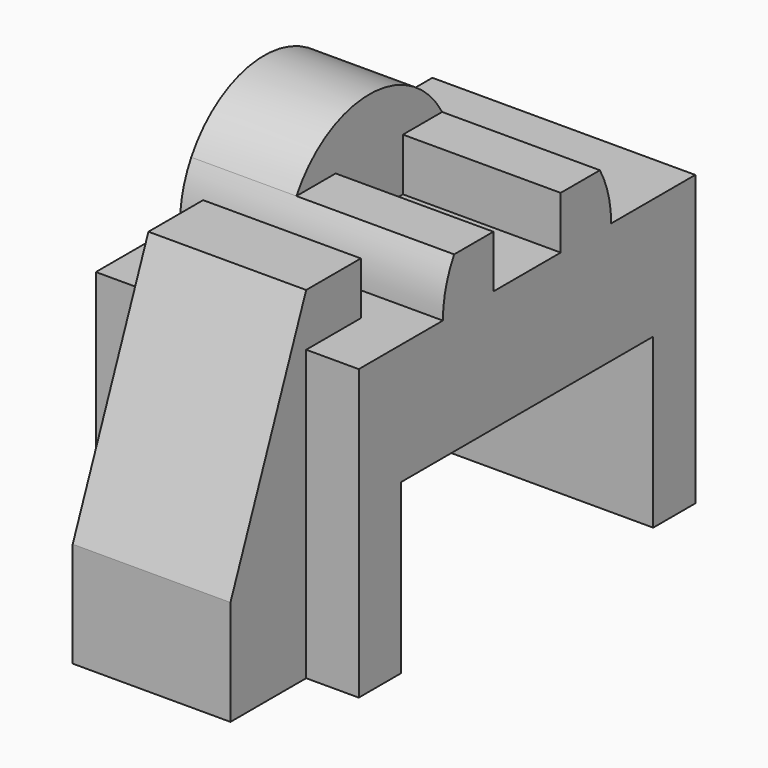
from build123d import *

# Parameters (mm, degrees)
F1_DEPTH      = 25
F2_W          = 30
F2_H          = 65
F3_DEPTH      = 18
F3_DEPTH_BACK = 13
F4_SIZE2      = 18
F4_SIZE       = 45
F6_DEPTH      = 20


with BuildPart() as f1:
    # F0 (on Right) → F1 (new body, symmetric)
    with BuildSketch(Plane.YZ):
        with BuildLine():
            Line((8, 0), (0, 0))
            Line((0, 0), (-8, 0))
            Line((-8, 0), (-8, 10))
            Line((-8, 10), (-17.3205080757, 10))
            ThreePointArc((-17.3205080757, 10), (-19.3185165258, 5.1763809021), (-20, 0))
            Line((-20, 0), (-40, 0))
            Line((-40, 0), (-40, -55))
            Line((-40, -55), (-30, -55))
            Line((-30, -55), (-30, -23))
            Line((-30, -23), (0, -23))
            Line((0, -23), (30, -23))
            Line((30, -23), (30, -55))
            Line((30, -55), (40, -55))
            Line((40, -55), (40, 0))
            Line((40, 0), (20, 0))
            ThreePointArc((20, 0), (19.3185165258, 5.1763809021), (17.3205080757, 10))
            Line((17.3205080757, 10), (8, 10))
            Line((8, 10), (8, 0))
        make_face()
    extrude(amount=F1_DEPTH, both=True)

    # F2 (on face) → F3 (join, two sides)
    with BuildSketch(Plane.XZ.offset(40)) as f3_sk:
        with Locations((0, -22.5)):
            Rectangle(F2_W, F2_H)
    extrude(amount=F3_DEPTH)
    extrude(f3_sk.sketch, amount=-F3_DEPTH_BACK)

    # F4
    f4_edges = [f1.edges().sort_by_distance(p)[0] for p in [
        (0, -58, 10),
    ]]
    f4_side = f1.faces().sort_by_distance((0, -58, -22.5))[0]
    chamfer(f4_edges, length=F4_SIZE, length2=F4_SIZE2, reference=f4_side)

    # F5 (on face) → F6 (join)
    with BuildSketch(Plane(origin=(-25, 0, 0), x_dir=(0, -1, 0), z_dir=(-1, 0, 0))):
        with BuildLine():
            Line((-20, 0), (20, 0))
            ThreePointArc((20, 0), (0, 20), (-20, 0))
        make_face()
    extrude(amount=-F6_DEPTH)


solid = f1.part
